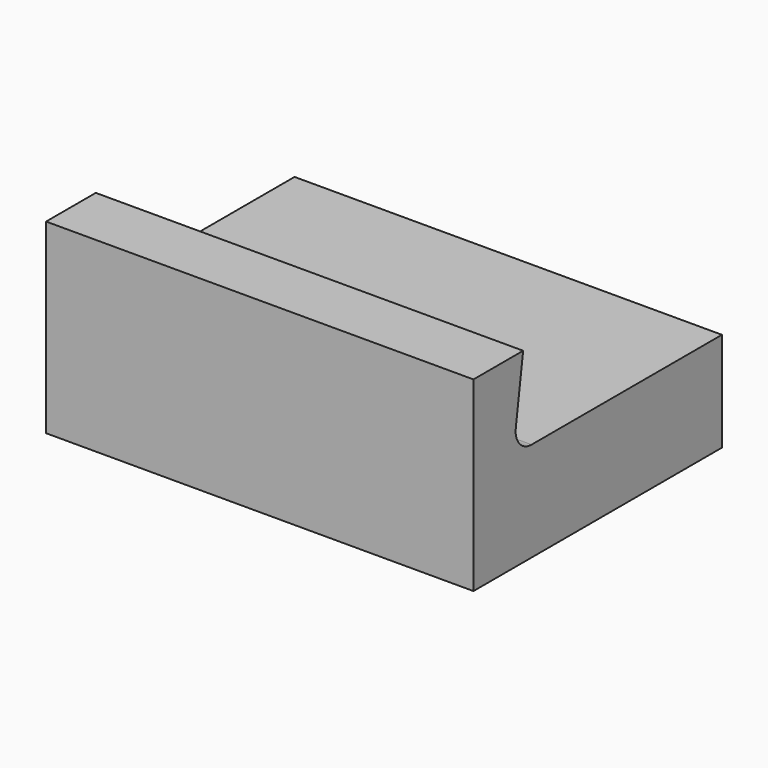
from build123d import *

# Parameters (mm, degrees)
F0_W     = 8.6
F0_H     = 2
F0_W_2   = 7.6
F0_H_2   = 1
F1_DEPTH = 5
F2_W     = 8.6
F2_H     = 3.75
F3_DEPTH = 1.25
F5_DEPTH = 8.601
F6_R     = 0.4


with BuildPart() as f1:
    # F0 (on Front) → F1 (new body)
    with BuildSketch(Plane.XZ):
        Rectangle(F0_W, F0_H)
        Rectangle(F0_W_2, F0_H_2, mode=Mode.SUBTRACT)
    extrude(amount=F1_DEPTH)

    # F2 (on face) → F3 (join)
    with BuildSketch(Plane.XZ.offset(5)):
        with Locations((0, 0.875)):
            Rectangle(F2_W, F2_H)
    extrude(amount=F3_DEPTH)

    # F4 (on face) → F5 (cut, through all)
    with BuildSketch(Plane.YZ.offset(4.3)):
        Polygon((-5, 1), (-5, 2.75), (-5.25, 1), align=None)
    extrude(amount=-F5_DEPTH, mode=Mode.SUBTRACT)

    # F6
    f6_edges = [f1.edges().sort_by_distance(p)[0] for p in [
        (0, -5.25, 1),
    ]]
    fillet(f6_edges, radius=F6_R)


solid = f1.part
